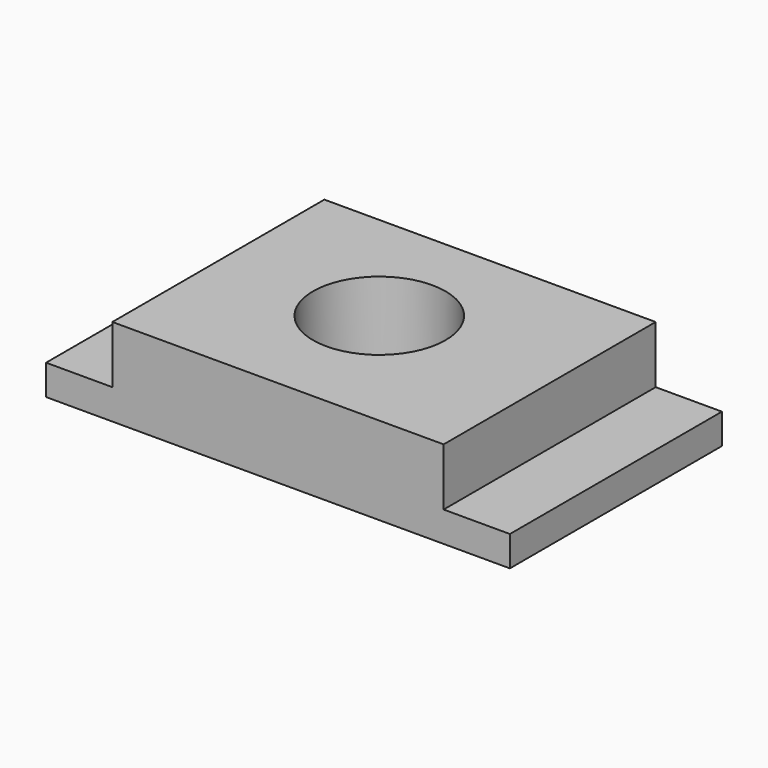
from build123d import *

# Parameters (mm, degrees)
F0_W     = 177.8
F0_H     = 33.6000117971
F1_DEPTH = 101.6
F2_R     = 25.4
F3_DEPTH = 33.6010117971
F4_W     = 25.4
F4_H     = 21.9941446124
F5_DEPTH = 101.601


with BuildPart() as f1:
    # F0 (on Front) → F1 (new body)
    with BuildSketch(Plane.XZ):
        with Locations((88.9, 16.8000058986)):
            Rectangle(F0_W, F0_H)
    extrude(amount=F1_DEPTH)

    # F2 (on face) → F3 (cut, through all)
    with BuildSketch(Plane.XY.offset(33.6000117971)):
        with Locations((85.2616652846, -48.5184304416)):
            Circle(F2_R)
    extrude(amount=-F3_DEPTH, mode=Mode.SUBTRACT)

    # F4 (on face) → F5 (cut, through all)
    with BuildSketch(Plane.XZ.offset(101.6)):
        Polygon((177.8, 11.6058671847), (177.8, 33.6000117971), (159.5585218906, 33.6000117971), (152.4, 33.6000117971), (152.4, 11.6058671847), align=None)
        with Locations((12.7, 22.6029394909)):
            Rectangle(F4_W, F4_H)
    extrude(amount=-F5_DEPTH, mode=Mode.SUBTRACT)


solid = f1.part
